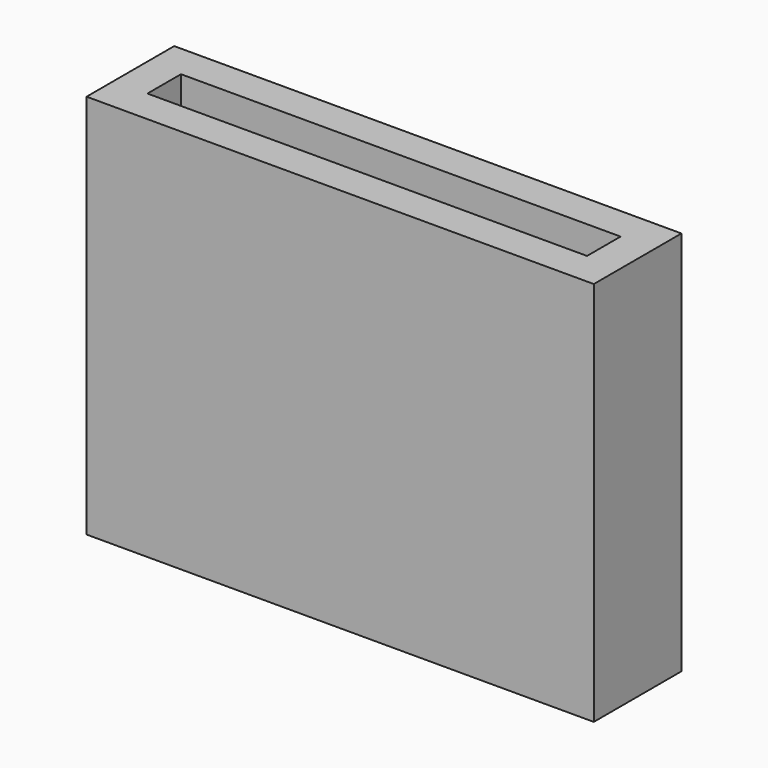
from build123d import *

# Parameters (mm, degrees)
F3_W     = 15
F3_H     = 3.24
F3_W_2   = 13
F3_H_2   = 1.24
F4_DEPTH = 11.4
F3_W_3   = 10.76
F3_H_3   = 1
F5_DEPTH = 1


with BuildPart() as f4:
    # F3 (on Top) → F4 (new body)
    with BuildSketch(Plane.XY):
        Rectangle(F3_W, F3_H)
        Rectangle(F3_W_2, F3_H_2, mode=Mode.SUBTRACT)
    extrude(amount=F4_DEPTH)

    # F3 (on Top) → F5 (join)
    with BuildSketch(Plane.XY):
        Rectangle(F3_W_2, F3_H_2)
        with Locations((-1, 0)):
            Rectangle(F3_W_3, F3_H_3, mode=Mode.SUBTRACT)
        with Locations((-1, 0)):
            Rectangle(F3_W_3, F3_H_3)
    extrude(amount=F5_DEPTH)


solid = f4.part
